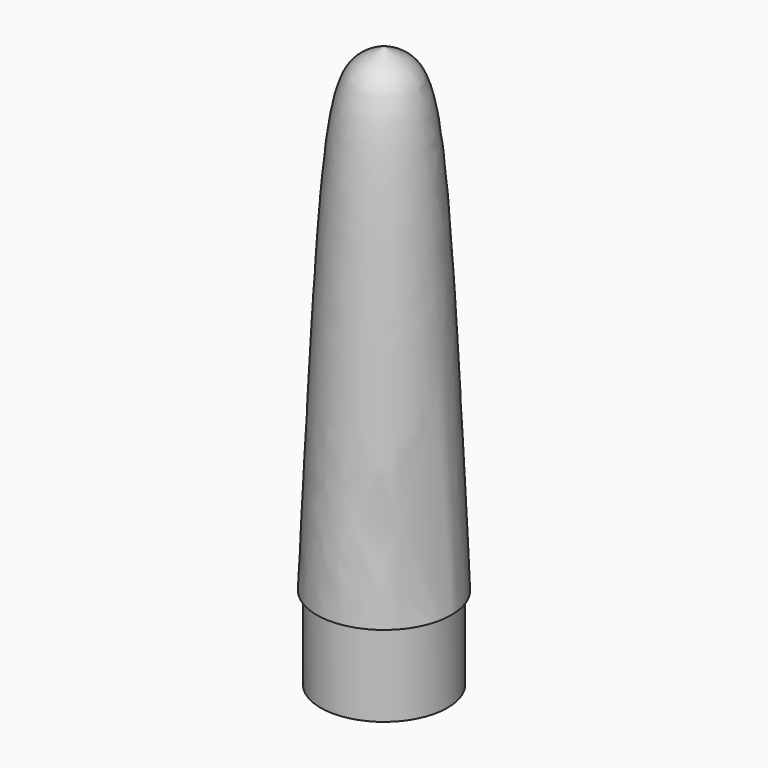
from build123d import *


with BuildPart() as f1:
    # F0 (on Front) → F1 (revolve)
    with BuildSketch(Plane.XZ):
        with BuildLine():
            Line((0, 115), (0, 0))
            Line((0, 0), (13, 0))
            Line((13, 0), (13, 17))
            Line((13, 17), (13.8, 17))
            add(Edge.make_bspline(
                [(13.8, 17), (9.50559, 115.776189), (9.50559, 110.244416), (0, 115)],
                knots=[0, 0, 0, 0, 98.966863, 98.966863, 98.966863, 98.966863], degree=3))
        make_face()
    revolve(axis=Axis((0, 0, 57.5), (0, 0, -1)))


solid = f1.part
